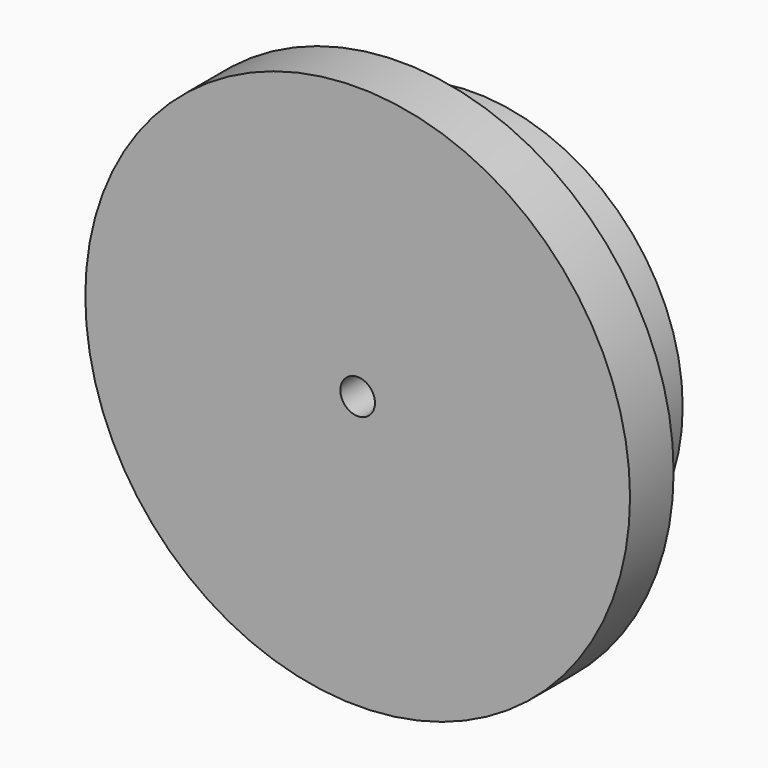
from build123d import *

# Parameters (mm, degrees)
F0_R     = 75
F1_DEPTH = 15
F2_R     = 57.5
F3_DEPTH = 25
F4_R     = 4.7625
F5_DEPTH = 40.001


with BuildPart() as f1:
    # F0 (on Front) → F1 (new body)
    with BuildSketch(Plane.XZ):
        Circle(F0_R)
    extrude(amount=F1_DEPTH)

    # F2 (on face) → F3 (join)
    with BuildSketch(Plane(origin=(0, 0, 0), x_dir=(-1, 0, 0), z_dir=(0, 1, 0))):
        Circle(F2_R)
    extrude(amount=F3_DEPTH)

    # F4 (on face) → F5 (cut, through all)
    with BuildSketch(Plane.XZ.offset(15)):
        Circle(F4_R)
    extrude(amount=-F5_DEPTH, mode=Mode.SUBTRACT)


solid = f1.part
